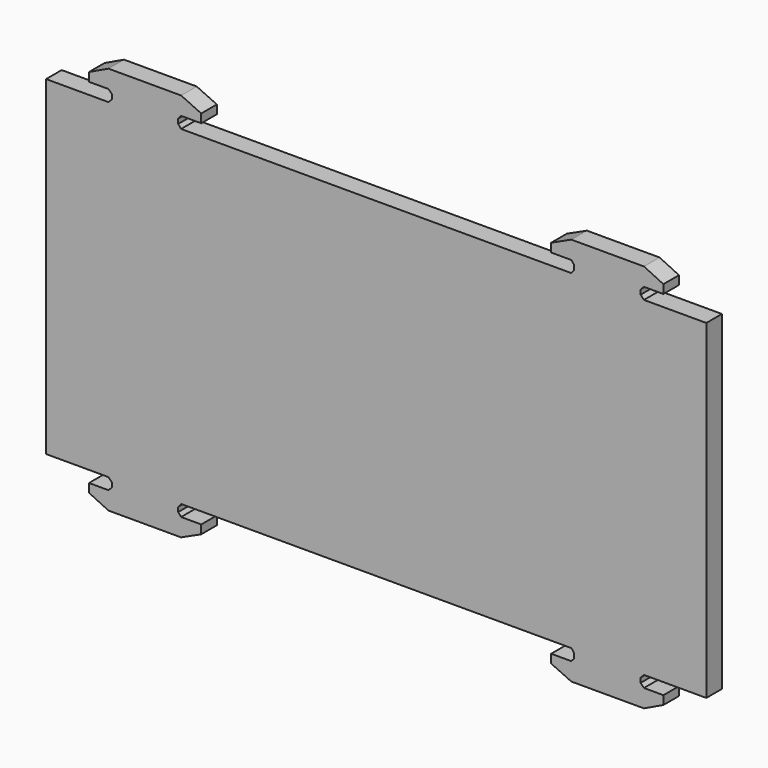
from build123d import *

# Parameters (mm, degrees)
F1_DEPTH = 3


with BuildPart() as f1:
    # F0 (on Front) → F1 (new body)
    with BuildSketch(Plane.XZ):
        Polygon((41.199695, -25.4), (50.8, -25.4), (50.8, 25.4), (41.199695, 25.4), (30.023695, 25.4), (-30.023695, 25.4), (-41.199695, 25.4), (-50.8, 25.4), (-50.8, -25.4), (-41.199695, -25.4), (-30.023695, -25.4), (30.023695, -25.4), align=None)
        Polygon((-41.199695, 25.4), (-30.023695, 25.4), (-30.467773, 25.935689), (-30.467773, 26.649596), (-30.023695, 27.173128), (-26.924, 27.173128), (-26.924, 28.505756), (-30.023695, 29.93357), (-41.199695, 29.93357), (-44.196, 28.505756), (-44.196, 27.173128), (-41.199695, 27.173128), (-40.683456, 26.649596), (-40.683456, 25.935689), align=None)
        Polygon((30.023695, 25.4), (41.199695, 25.4), (40.683456, 25.935689), (40.683456, 26.649596), (41.199695, 27.173128), (44.196, 27.173128), (44.196, 28.505756), (41.199695, 29.93357), (30.023695, 29.93357), (26.924, 28.505756), (26.924, 27.173128), (30.023695, 27.173128), (30.467773, 26.649596), (30.467773, 25.935689), align=None)
        Polygon((40.683456, -25.935689), (41.199695, -25.4), (30.023695, -25.4), (30.467773, -25.935689), (30.467773, -26.649596), (30.023695, -27.173128), (26.924, -27.173128), (26.924, -28.505756), (30.023695, -29.93357), (41.199695, -29.93357), (44.196, -28.505756), (44.196, -27.173128), (41.199695, -27.173128), (40.683456, -26.649596), align=None)
        Polygon((-30.467773, -25.935689), (-30.023695, -25.4), (-41.199695, -25.4), (-40.683456, -25.935689), (-40.683456, -26.649596), (-41.199695, -27.173128), (-44.196, -27.173128), (-44.196, -28.505756), (-41.199695, -29.93357), (-30.023695, -29.93357), (-26.924, -28.505756), (-26.924, -27.173128), (-30.023695, -27.173128), (-30.467773, -26.649596), align=None)
    extrude(amount=F1_DEPTH)


solid = f1.part
